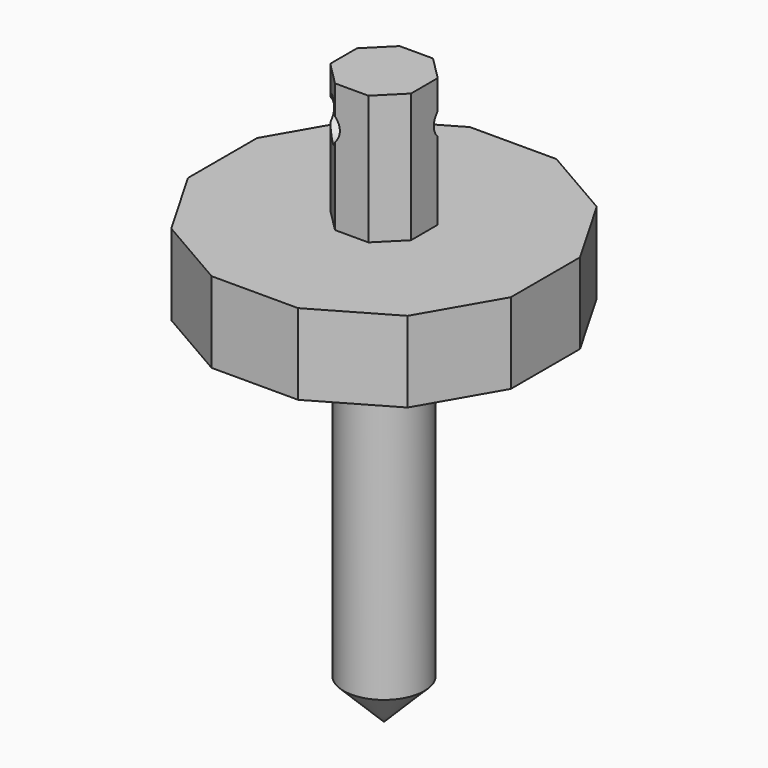
from build123d import *

# Parameters (mm, degrees)
F0_R          = 5
F1_DEPTH      = 50
F2_SIZE       = 5
F5_DEPTH      = 5
F5_DEPTH_BACK = 5
F6_DEPTH      = 5
F8_DEPTH      = 16
F10_DEPTH     = 25


with BuildPart() as f1:
    # F0 (on Top) → F1 (new body)
    with BuildSketch(Plane.XY):
        Circle(F0_R)
    extrude(amount=F1_DEPTH)

    # F2
    f2_edges = [f1.edges().sort_by_distance(p)[0] for p in [
        (-5, 0, 0),
    ]]
    chamfer(f2_edges, length=F2_SIZE)

    # F3 (on face) → F5 (join, two sides)
    with BuildSketch(Plane.XY.offset(50)) as f5_sk:
        Polygon((0, -20), (5.3589838486, -20), (14.6410161514, -14.6410161514), (20, -5.3589838486), (20, 5.3589838486), (14.6410161514, 14.6410161514), (5.3589838486, 20), (-5.3589838486, 20), (-14.6410161514, 14.6410161514), (-20, 5.3589838486), (-20, -5.3589838486), (-14.6410161514, -14.6410161514), (-5.3589838486, -20), align=None)
        with BuildLine():
            ThreePointArc((5, 0), (3.5355339059, -3.5355339059), (0, -5))
            ThreePointArc((0, -5), (-3.5355339059, 3.5355339059), (5, 0))
        make_face(mode=Mode.SUBTRACT)
    extrude(amount=F5_DEPTH)
    extrude(f5_sk.sketch, amount=-F5_DEPTH_BACK)

    # F4 (on face) → F6 (join)
    with BuildSketch(Plane.XY.offset(50)):
        with BuildLine():
            ThreePointArc((5, 0), (-3.5355339059, 3.5355339059), (0, -5))
            ThreePointArc((0, -5), (3.5355339059, -3.5355339059), (5, 0))
        make_face()
    extrude(amount=F6_DEPTH)

    # F7 (on face) → F8 (join)
    with BuildSketch(Plane.XY.offset(55)):
        Polygon((0, 5), (-2.0710678119, 5), (-5, 2.0710678119), (-5, -2.0710678119), (-2.0710678119, -5), (2.0710678119, -5), (5, -2.0710678119), (5, 2.0710678119), (2.0710678119, 5), align=None)
    extrude(amount=F8_DEPTH)

    # F9 (on face) → F10 (cut)
    with BuildSketch(Plane(origin=(3.5355339059, 3.5355339059, 0), x_dir=(-0.7071067812, 0.7071067812, 0), z_dir=(0.7071067812, 0.7071067812, 0))):
        with BuildLine():
            ThreePointArc((0, 68.5), (-1.767766953, 64.232233047), (2.5, 66))
            ThreePointArc((2.5, 66), (1.767766953, 67.767766953), (0, 68.5))
        make_face()
    extrude(amount=-F10_DEPTH, mode=Mode.SUBTRACT)


solid = f1.part
